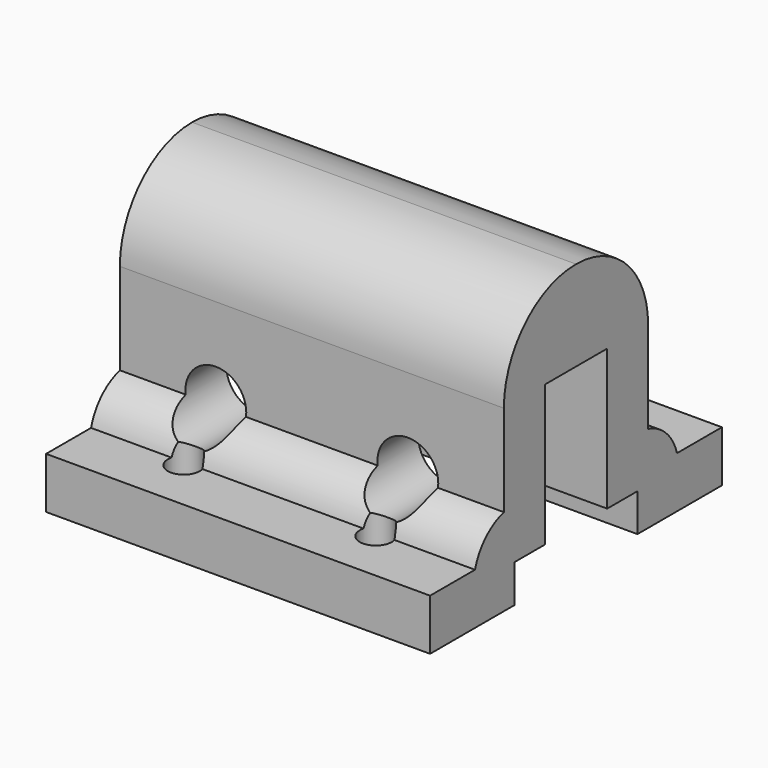
from build123d import *

# Parameters (mm, degrees)
PAD003_DEPTH    = 30
SKETCH011_R     = 4.25
PAD004_DEPTH    = 2
SKETCH012_R     = 4.25
PAD005_DEPTH    = 2
SKETCH008_R     = 2.5
POCKET001_DEPTH = 28.501
SKETCH009_R     = 4.75
POCKET002_DEPTH = 28.501
SKETCH010_R     = 2.5
POCKET003_DEPTH = 48.111


with BuildPart() as part:
    # Sketch007 → Pad003 (new body, symmetric)
    with BuildSketch(Plane(origin=(0, 0, 10), x_dir=(0, 1, 0), z_dir=(1, 0, 0))):
        with BuildLine():
            Line((-12, 6.09), (-28.5, 6.09))
            Line((-28.5, 6.09), (-28.5, 14.09))
            Line((-28.5, 14.09), (-19.722169, 14.09))
            ThreePointArc((-14.09, 19.722169), (-17.656854, 17.656854), (-19.722169, 14.09))
            Line((-14.09, 19.722169), (-14.09, 34.02))
            ThreePointArc((0, 48.11), (-9.963135, 43.983135), (-14.09, 34.02))
            Line((0, 48.11), (0, 34.02))
            Line((0, 34.02), (-6.09, 34.02))
            Line((-6.09, 34.02), (-6.09, 12))
            Line((-12, 12), (-6.09, 12))
            Line((-12, 6.09), (-12, 12))
        make_face()
    pad003 = extrude(amount=PAD003_DEPTH, both=True)

    # Mirrored: Pad003 across Sketch007 V_Axis
    add(pad003.mirror(Plane(origin=(0, 0, 10), x_dir=(1, 0, 0), z_dir=(0, 1, 0))))

    # Sketch011 → Pad004 (join)
    with BuildSketch(Plane.XY.offset(15.085)):
        with Locations((-15, 20.35)):
            Circle(SKETCH011_R)
        with Locations((15, 20.35)):
            Circle(SKETCH011_R)
        with Locations((15, -20.35)):
            Circle(SKETCH011_R)
        with Locations((-15, -20.35)):
            Circle(SKETCH011_R)
    extrude(amount=PAD004_DEPTH)

    # Sketch012 → Pad005 (join)
    with BuildSketch(Plane(origin=(0, 5.085, 30.35), x_dir=(1, 0, 0), z_dir=(0, -1, 0))):
        with Locations((-15, 0)):
            Circle(SKETCH012_R)
        with Locations((15, 0)):
            Circle(SKETCH012_R)
    extrude(amount=-PAD005_DEPTH)

    # Sketch008 → Pocket001 (cut, through all)
    with BuildSketch(Plane(origin=(0, 0, 30.35), x_dir=(1, 0, 0), z_dir=(0, -1, 0))):
        with Locations((-15, 0)):
            Circle(SKETCH008_R)
        with Locations((15, 0)):
            Circle(SKETCH008_R)
    extrude(amount=-POCKET001_DEPTH, mode=Mode.SUBTRACT)

    # Sketch009 → Pocket002 (cut, through all)
    with BuildSketch(Plane(origin=(0, 0, 30.35), x_dir=(1, 0, 0), z_dir=(0, -1, 0))):
        with Locations((-15, 0)):
            Circle(SKETCH009_R)
        with Locations((15, 0)):
            Circle(SKETCH009_R)
    extrude(amount=POCKET002_DEPTH, mode=Mode.SUBTRACT)

    # Sketch010 → Pocket003 (cut, through all)
    with BuildSketch(Plane.XY.offset(10)):
        with Locations((-15, 20.35)):
            Circle(SKETCH010_R)
        with Locations((15, 20.35)):
            Circle(SKETCH010_R)
        with Locations((15, -20.35)):
            Circle(SKETCH010_R)
        with Locations((-15, -20.35)):
            Circle(SKETCH010_R)
    extrude(amount=POCKET003_DEPTH, mode=Mode.SUBTRACT)


solid = part.part
